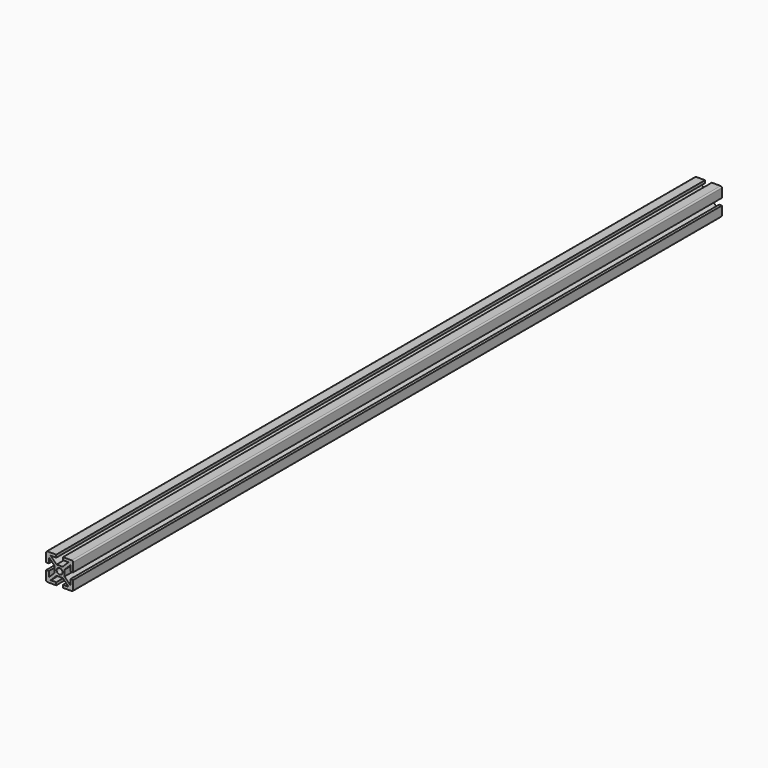
from build123d import *

# Parameters (mm, degrees)
F1_DEPTH      = 300
F1_DEPTH_BACK = 300
F2_R          = 1


with BuildPart() as f1:
    # F0 (on Front) → F1 (new body, two sides)
    with BuildSketch(Plane.XZ) as f1_sk:
        Polygon((-2.5, 10), (-10, 10), (-10, 2.5), (-8, 2.5), (-8, 6.585786), (-3.65, 2.235786), (-3.65, 0), (-3.65, -2.235786), (-8, -6.585786), (-8, -2.5), (-10, -2.5), (-10, -10), (-2.5, -10), (-2.5, -8), (-6.585786, -8), (-2.235786, -3.65), (2.235786, -3.65), (6.585786, -8), (2.5, -8), (2.5, -10), (10, -10), (10, -2.5), (8, -2.5), (8, -6.585786), (3.65, -2.235786), (3.65, 0), (3.65, 2.235786), (8, 6.585786), (8, 2.5), (10, 2.5), (10, 10), (2.5, 10), (2.5, 8), (6.585786, 8), (2.235786, 3.65), (-2.235786, 3.65), (-6.585786, 8), (-2.5, 8), align=None)
        with BuildLine():
            ThreePointArc((-2.15, 0), (0, 2.15), (2.15, 0))
            ThreePointArc((2.15, 0), (0, -2.15), (-2.15, 0))
        make_face(mode=Mode.SUBTRACT)
    extrude(amount=F1_DEPTH)
    extrude(f1_sk.sketch, amount=-F1_DEPTH_BACK)

    # F2
    f2_edges = [f1.edges().sort_by_distance(p)[0] for p in [
        (-10, 0, 10),
        (10, 0, 10),
        (-10, 0, -10),
        (10, 0, -10),
    ]]
    fillet(f2_edges, radius=F2_R)


solid = f1.part
